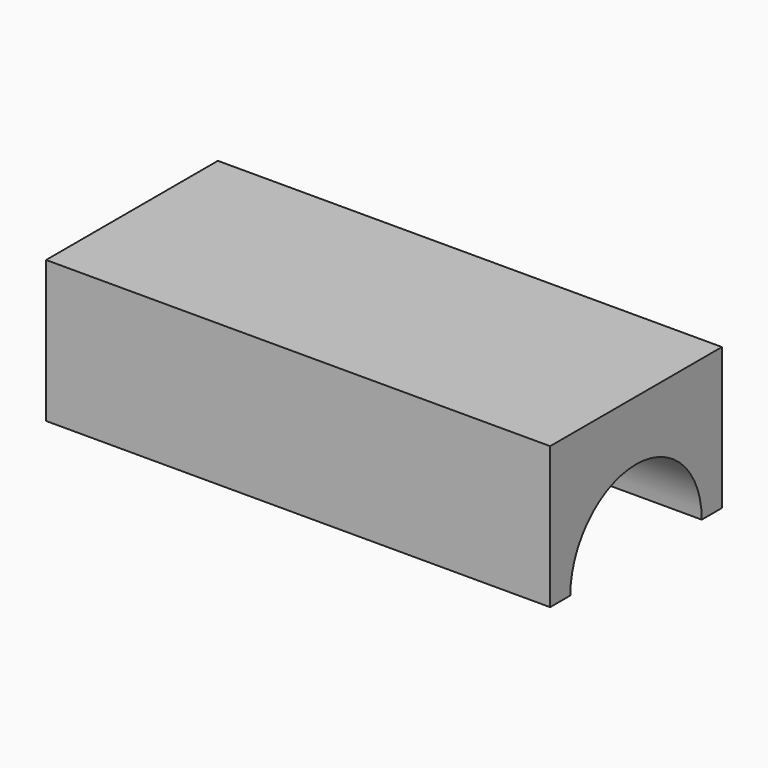
from build123d import *

# Parameters (mm, degrees)
F1_DEPTH = 101.6


with BuildPart() as f1:
    # F0 (on Right) → F1 (new body)
    with BuildSketch(Plane.YZ):
        with BuildLine():
            ThreePointArc((-16.5608, -11.282155), (0, 5.278645), (16.5608, -11.282155))
            Line((16.5608, -11.282155), (21.6408, -11.282155))
            Line((21.6408, -11.282155), (21.6408, 17.292845))
            Line((21.6408, 17.292845), (-21.6408, 17.292845))
            Line((-21.6408, 17.292845), (-21.6408, -11.282155))
            Line((-21.6408, -11.282155), (-16.5608, -11.282155))
        make_face()
    extrude(amount=F1_DEPTH)


solid = f1.part
